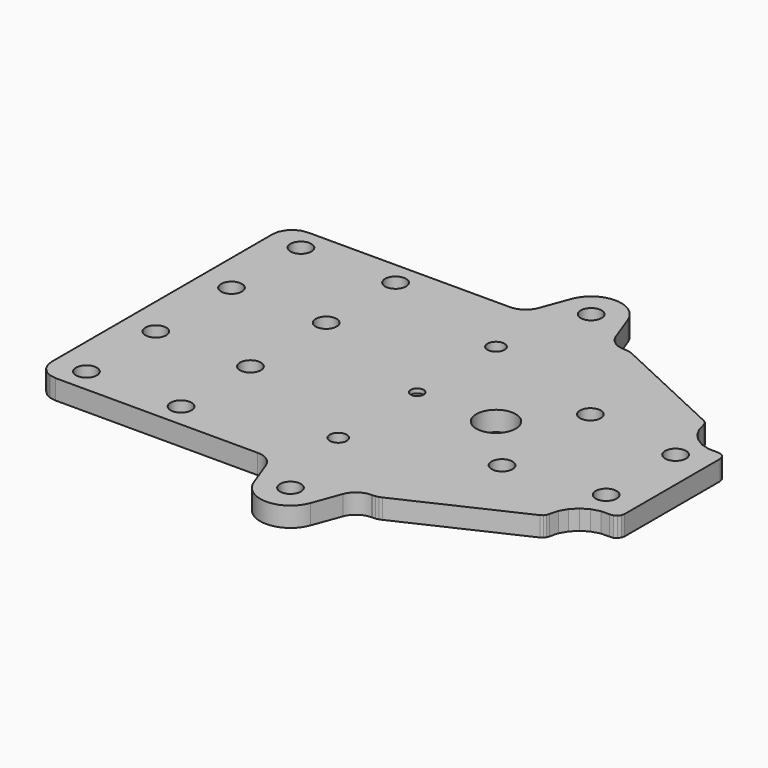
from build123d import *

# Parameters (mm, degrees)
F1_R     = 2.65
F1_R_2   = 2.15
F1_R_3   = 8.1
F1_R_4   = 5
F1_R_5   = 1.65
F2_DEPTH = 5
F3_DEPTH = 3.9
F4_R     = 5


with BuildPart() as f2:
    # F1 (on Top) → F2 (new body)
    with BuildSketch(Plane.XY):
        with BuildLine():
            Line((-64.4537, 36.5492), (-64.6979, 35.0007))
            Line((-64.6979, 35.0007), (-64.6979, -34.9969))
            Line((-64.6979, -34.9969), (-64.4484, -36.5417))
            Line((-64.4484, -36.5417), (-63.7479, -37.9332))
            Line((-63.7479, -37.9332), (-62.6335, -39.0374))
            Line((-62.6335, -39.0374), (-61.2488, -39.7513))
            Line((-61.2488, -39.7513), (-59.7007, -39.9967))
            Line((-59.7007, -39.9967), (-4.979727, -39.999559))
            Line((-4.979727, -39.999559), (-1.17605, -50.300132))
            ThreePointArc((-1.17605, -50.300132), (6.0003, -55.300132), (13.17665, -50.300132))
            Line((13.17665, -50.300132), (16.979904, -40.000706))
            Line((16.979904, -40.000706), (20.6995, -40.0009))
            Line((20.6995, -40.0009), (21.4269, -39.9453))
            Line((21.4269, -39.9453), (22.1399, -39.7905))
            Line((22.1399, -39.7905), (22.8102, -39.5276))
            Line((22.8102, -39.5276), (51.9283, -25.9473))
            Line((51.9283, -25.9473), (52.4796, -25.5742))
            Line((52.4796, -25.5742), (52.8725, -25.0372))
            Line((52.8725, -25.0372), (53.0678, -24.3953))
            Line((53.0678, -24.3953), (53.6298, -22.2747))
            Line((53.6298, -22.2747), (54.7211, -20.3647))
            Line((54.7211, -20.3647), (56.2653, -18.7999))
            Line((56.2653, -18.7999), (58.1567, -17.6809))
            Line((58.1567, -17.6809), (60.2719, -17.0814))
            Line((60.2719, -17.0814), (62.4712, -17.0559))
            Line((62.4712, -17.0559), (63.308, -16.9719))
            Line((63.308, -16.9719), (64.0317, -16.5604))
            Line((64.0317, -16.5604), (64.5194, -15.8794))
            Line((64.5194, -15.8794), (64.6979, -15.0676))
            Line((64.6979, -15.0676), (64.6979, 15.0714))
            Line((64.6979, 15.0714), (64.5279, 15.8914))
            Line((64.5279, 15.8914), (64.0302, 16.5693))
            Line((64.0302, 16.5693), (63.3002, 16.9797))
            Line((63.3002, 16.9797), (62.4669, 17.0619))
            Line((62.4669, 17.0619), (60.2718, 17.0848))
            Line((60.2718, 17.0848), (58.1543, 17.681))
            Line((58.1543, 17.681), (56.2623, 18.8029))
            Line((56.2623, 18.8029), (54.7233, 20.3646))
            Line((54.7233, 20.3646), (53.6382, 22.281))
            Line((53.6382, 22.281), (53.0683, 24.401))
            Line((53.0683, 24.401), (52.8783, 25.0411))
            Line((52.8783, 25.0411), (52.4811, 25.5759))
            Line((52.4811, 25.5759), (51.9289, 25.9507))
            Line((51.9289, 25.9507), (22.812, 39.5287))
            Line((22.812, 39.5287), (22.1399, 39.7917))
            Line((22.1399, 39.7917), (21.4259, 39.9459))
            Line((21.4259, 39.9459), (20.6976, 40.0009))
            Line((20.6976, 40.0009), (16.98124, 40.000886))
            Line((16.98124, 40.000886), (13.17665, 50.303932))
            ThreePointArc((13.17665, 50.303932), (6.0003, 55.303932), (-1.17605, 50.303932))
            Line((-1.17605, 50.303932), (-4.980671, 40.000804))
            Line((-4.980671, 40.000804), (-59.6981, 40.0006))
            Line((-59.6981, 40.0006), (-61.245, 39.7556))
            Line((-61.245, 39.7556), (-62.6341, 39.0468))
            Line((-62.6341, 39.0468), (-63.7466, 37.9452))
            Line((-63.7466, 37.9452), (-64.4537, 36.5492))
        make_face()
        with Locations((-56.6982, -33.959099)):
            Circle(F1_R, mode=Mode.SUBTRACT)
        with Locations((-32.6989, -33.960634)):
            Circle(F1_R, mode=Mode.SUBTRACT)
        with Locations((-56.6957, -11.959936)):
            Circle(F1_R, mode=Mode.SUBTRACT)
        with Locations((-32.702, -11.964319)):
            Circle(F1_R, mode=Mode.SUBTRACT)
        with Locations((6.0003, -47.650132)):
            Circle(F1_R, mode=Mode.SUBTRACT)
        with Locations((0, -24.9981)):
            Circle(F1_R_2, mode=Mode.SUBTRACT)
        with Locations((32.6989, -13.962368)):
            Circle(F1_R, mode=Mode.SUBTRACT)
        with Locations((56.6944, -10.95745)):
            Circle(F1_R, mode=Mode.SUBTRACT)
        with Locations((-56.7023, 12.03785)):
            Circle(F1_R, mode=Mode.SUBTRACT)
        with Locations((-32.70075, 12.03915)):
            Circle(F1_R, mode=Mode.SUBTRACT)
        with Locations((-56.6982, 34.0357)):
            Circle(F1_R, mode=Mode.SUBTRACT)
        with Locations((-32.6997, 34.03845)):
            Circle(F1_R, mode=Mode.SUBTRACT)
        with Locations((0, 0.0019)):
            Circle(F1_R_3, mode=Mode.SUBTRACT)
        with Locations((20, 0.0019)):
            Circle(F1_R_4, mode=Mode.SUBTRACT)
        with Locations((0, 25.0019)):
            Circle(F1_R_2, mode=Mode.SUBTRACT)
        with Locations((56.703, 11.04075)):
            Circle(F1_R, mode=Mode.SUBTRACT)
        with Locations((32.698325, 14.036925)):
            Circle(F1_R, mode=Mode.SUBTRACT)
        with Locations((6.0003, 47.653932)):
            Circle(F1_R, mode=Mode.SUBTRACT)
        with Locations((0, 0.0019)):
            Circle(F1_R_3)
        with Locations((0, 0.0019)):
            Circle(F1_R_5, mode=Mode.SUBTRACT)
    extrude(amount=F2_DEPTH)

    # F1 (on Top) → F3 (cut)
    with BuildSketch(Plane.XY):
        with Locations((0, 0.0019)):
            Circle(F1_R_3)
        with Locations((0, 0.0019)):
            Circle(F1_R_5, mode=Mode.SUBTRACT)
    extrude(amount=F3_DEPTH, mode=Mode.SUBTRACT)

    # F4
    f4_edges = [f2.edges().sort_by_distance(p)[0] for p in [
        (-4.979727, -39.999559, 2.5),
        (16.979904, -40.000706, 2.5),
        (-4.980671, 40.000804, 2.5),
        (16.98124, 40.000886, 2.5),
    ]]
    fillet(f4_edges, radius=F4_R)


solid = f2.part
